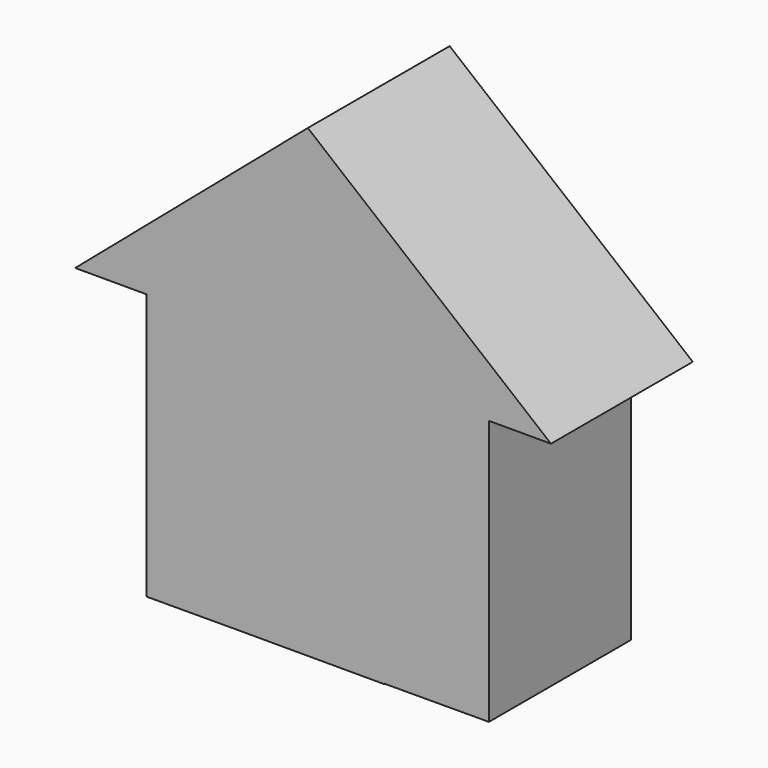
from build123d import *

# Parameters (mm, degrees)
F1_DEPTH = 50.8


with BuildPart() as f1:
    # F0 (on Front) → F1 (new body)
    with BuildSketch(Plane.XZ):
        Polygon((-66.646784544, 0), (-46.1711846292, 0), (51.8861822784, 0), (69.6556717157, 0), (0, 56.993290782), align=None)
        Polygon((51.8861822784, 0), (-46.1711846292, 0), (-46.1711846292, -76.2501358986), (-20.9102912922, -76.1726471121), (-20.9102912922, -21.5385891497), (21.8144096434, -21.5385891497), (21.8144096434, -76.0415874072), (51.8861822784, -75.9493410587), align=None)
        Polygon((-20.9102912922, -21.5385891497), (-20.9102912922, -76.1726471121), (21.8144096434, -76.0415874072), (21.8144096434, -21.5385891497), align=None)
        Polygon((21.8144096434, -76.0415874072), (-20.9102912922, -76.1726471121), (21.8144096434, -76.1726471121), align=None)
    extrude(amount=F1_DEPTH)


solid = f1.part
